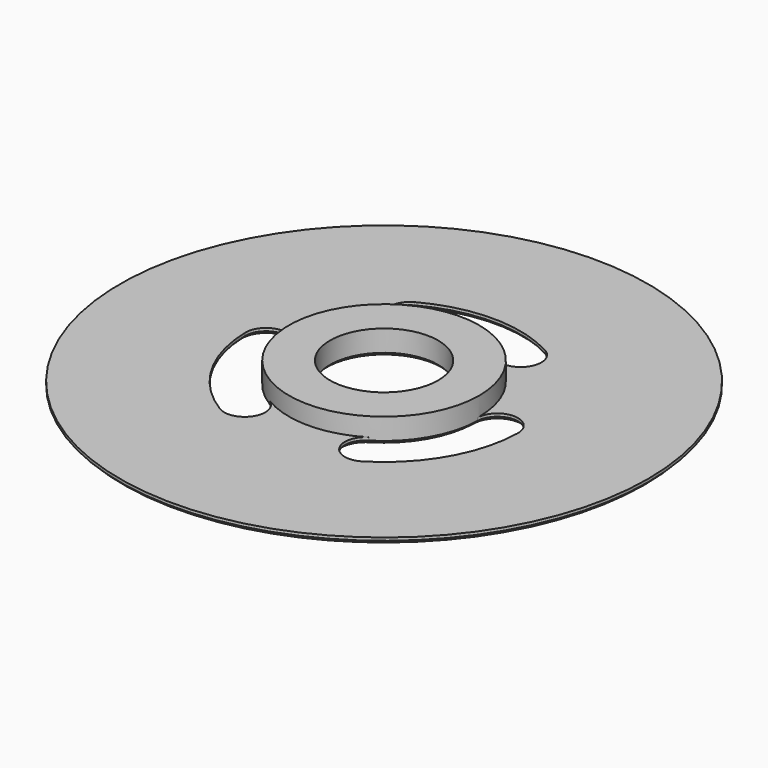
from build123d import *

# Parameters (mm, degrees)
F0_R     = 32.1
F0_R_2   = 6.575
F3_DEPTH = 0.75
F4_DEPTH = 25
F1_R     = 11.575
F1_R_2   = 6.575
F5_DEPTH = 3
F6_SIZE  = 0.4


with BuildPart() as f3:
    # F0 (on Top) → F3 (new body)
    with BuildSketch(Plane.XY):
        Circle(F0_R)
        Circle(F0_R_2, mode=Mode.SUBTRACT)
    extrude(amount=F3_DEPTH)

    # F2 (on Top) → F4 (cut)
    with BuildSketch(Plane.XY):
        with BuildLine():
            ThreePointArc((11.5712747437, -0.2936423108), (11.5740686484, -0.1468329699), (11.575, 0))
            ThreePointArc((11.575, 0), (9.9500209897, 5.9141954063), (5.5313356711, 10.1678390376))
            ThreePointArc((5.5313356711, 10.1678390376), (0, 11.575), (-5.5313356711, 10.1678390376))
            ThreePointArc((-5.5313356711, 10.1678390376), (-10.0242440488, 5.7875), (-11.5712747437, -0.2936423108))
            ThreePointArc((-11.5712747437, -0.2936423108), (-10.0242440488, -5.7875), (-6.0399390726, -9.8741967268))
            ThreePointArc((-6.0399390726, -9.8741967268), (0, -11.575), (6.0399390726, -9.8741967268))
            ThreePointArc((6.0399390726, -9.8741967268), (10.0242440488, -5.7875), (11.5712747437, -0.2936423108))
        make_face()
        with BuildLine():
            ThreePointArc((-5.5313356711, 10.1678390376), (0, 11.575), (5.5313356711, 10.1678390376))
            ThreePointArc((5.5313356711, 10.1678390376), (7.2175038611, 9.9127061865), (8.6749690104, 10.7981728857))
            ThreePointArc((8.6749690104, 10.7981728857), (9.1772189992, 12.8554118424), (7.9206815333, 14.5599941294))
            ThreePointArc((7.9206815333, 14.5599941294), (0, 16.575), (-7.9206815333, 14.5599941294))
            ThreePointArc((-7.9206815333, 14.5599941294), (-9.1772189992, 12.8554118424), (-8.6749690104, 10.7981728857))
            ThreePointArc((-8.6749690104, 10.7981728857), (-7.2175038611, 9.9127061865), (-5.5313356711, 10.1678390376))
        make_face()
        with BuildLine():
            ThreePointArc((13.6889765386, 2.1136570972), (12.1934073083, 1.2941886024), (11.5712747437, -0.2936423108))
            ThreePointArc((11.5712747437, -0.2936423108), (10.0242440488, -5.7875), (6.0399390726, -9.8741967268))
            ThreePointArc((6.0399390726, -9.8741967268), (4.9759034472, -11.2068947889), (5.0140075282, -12.9118299829))
            ThreePointArc((5.0140075282, -12.9118299829), (6.544503732, -14.3754107106), (8.6489840283, -14.1395084878))
            ThreePointArc((8.6489840283, -14.1395084878), (14.3543710677, -8.2875), (16.5696655617, -0.4204856416))
            ThreePointArc((16.5696655617, -0.4204856416), (15.7217227312, 1.5199988682), (13.6889765386, 2.1136570972))
        make_face()
        with BuildLine():
            ThreePointArc((-6.0399390726, -9.8741967268), (-10.0242440488, -5.7875), (-11.5712747437, -0.2936423108))
            ThreePointArc((-11.5712747437, -0.2936423108), (-12.1934073083, 1.2941886024), (-13.6889765386, 2.1136570972))
            ThreePointArc((-13.6889765386, 2.1136570972), (-15.7217227312, 1.5199988682), (-16.5696655617, -0.4204856416))
            ThreePointArc((-16.5696655617, -0.4204856416), (-14.3543710677, -8.2875), (-8.6489840283, -14.1395084878))
            ThreePointArc((-8.6489840283, -14.1395084878), (-6.544503732, -14.3754107106), (-5.0140075282, -12.9118299829))
            ThreePointArc((-5.0140075282, -12.9118299829), (-4.9759034472, -11.2068947889), (-6.0399390726, -9.8741967268))
        make_face()
    extrude(amount=F4_DEPTH, mode=Mode.SUBTRACT)

    # F1 (on Top) → F5 (join)
    with BuildSketch(Plane.XY):
        Circle(F1_R)
        Circle(F1_R_2, mode=Mode.SUBTRACT)
    extrude(amount=F5_DEPTH)

    # F6
    f6_edges = [f3.edges().sort_by_distance(p)[0] for p in [
        (-32.1, 0, 0),
        (8.922086, 11.169244, 0),
        (0, 11.575, 0),
        (-8.922086, 11.169244, 0),
        (0, 16.575, 0),
        (-14.133892, 2.142131, 0),
        (-10.024244, -5.7875, 0),
        (-5.211806, -13.311375, 0),
        (-14.354371, -8.2875, 0),
        (5.211806, -13.311375, 0),
        (10.024244, -5.7875, 0),
        (14.133892, 2.142131, 0),
        (14.354371, -8.2875, 0),
        (-6.575, 0, 0),
    ]]
    chamfer(f6_edges, length=F6_SIZE)


solid = f3.part
